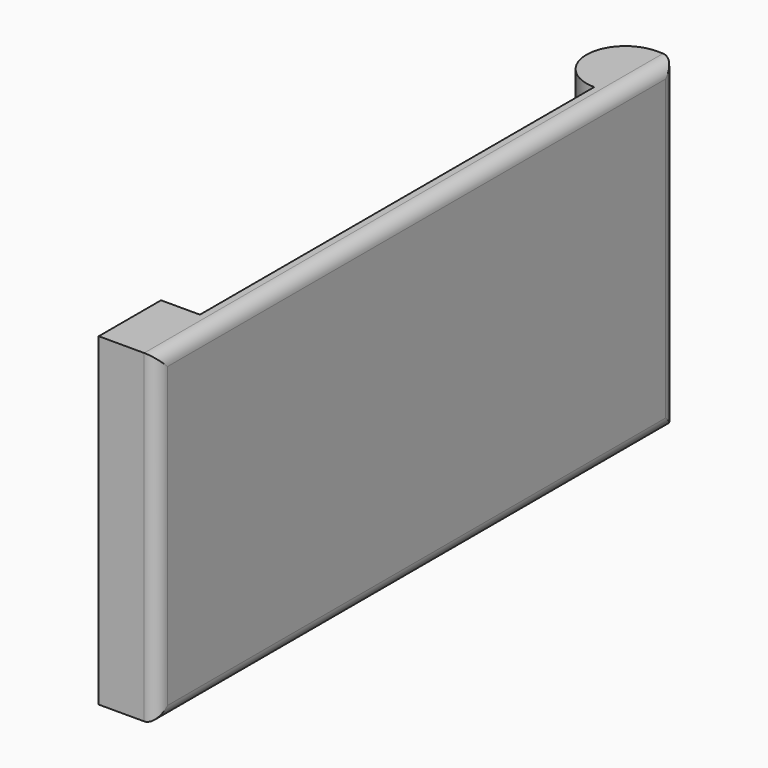
from build123d import *

# Parameters (mm, degrees)
PAD_DEPTH = 25
FILLET_R  = 1


with BuildPart() as part:
    # Sketch → Pad (new body)
    with BuildSketch(Plane.XY):
        with BuildLine():
            Line((1.5, -44), (1.5, 6))
            Line((1.5, 6), (0, 6))
            ThreePointArc((0, 6), (-3, 3), (0, 0))
            Line((0, 0), (0, -38))
            Line((0, -38), (-3, -38))
            Line((-3, -38), (-3, -44))
            Line((1.5, -44), (-3, -44))
        make_face()
    extrude(amount=PAD_DEPTH)

    # Fillet
    fillet_edges = [part.edges().sort_by_distance(p)[0] for p in [
        (1.5, -44, 12.5),
        (1.5, 6, 12.5),
        (1.5, -19, 0),
        (1.5, -19, 25),
    ]]
    fillet(fillet_edges, radius=FILLET_R)


solid = part.part
